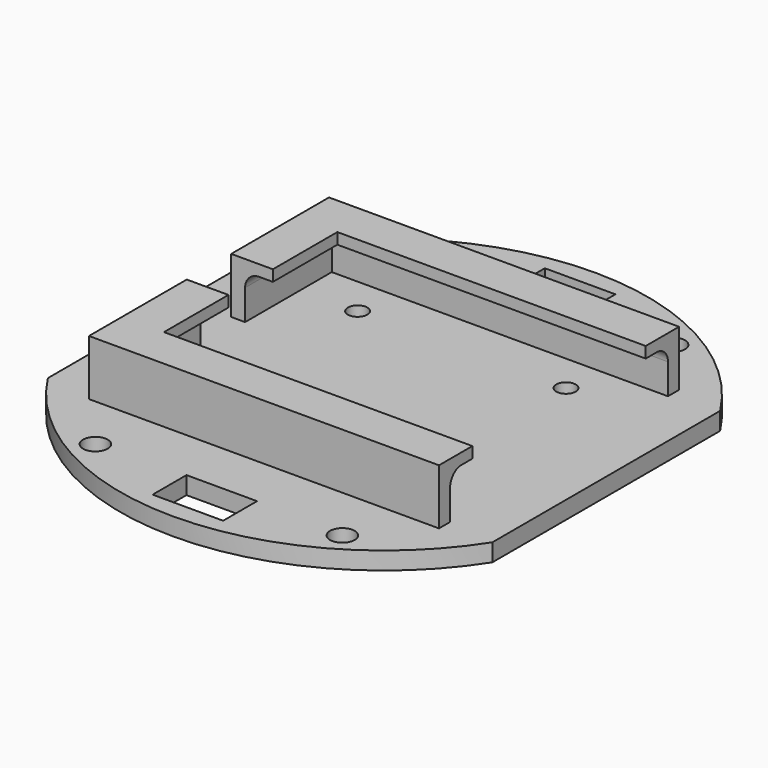
from build123d import *

# Parameters (mm, degrees)
F0_R     = 2.2225
F0_R_2   = 1.75
F0_W     = 12.7
F0_H     = 7.62
F1_DEPTH = 3.175
F3_DEPTH = 10
F5_DEPTH = 2
F6_R     = 2.54


with BuildPart() as f1:
    # F0 (on Top) → F1 (new body)
    with BuildSketch(Plane.XY):
        with BuildLine():
            Line((40, -25.617377), (40, 25.617377))
            ThreePointArc((40, 25.617377), (0, 47.5), (-40, 25.617377))
            Line((-40, 25.617377), (-40, -25.617377))
            ThreePointArc((-40, -25.617377), (0, -47.5), (40, -25.617377))
        make_face()
        with Locations((-22.225, -37.1475)):
            Circle(F0_R, mode=Mode.SUBTRACT)
        with Locations((-18.75, -17.5)):
            Circle(F0_R_2, mode=Mode.SUBTRACT)
        with Locations((0, -40.31)):
            Rectangle(F0_W, F0_H, mode=Mode.SUBTRACT)
        with Locations((22.225, -37.1475)):
            Circle(F0_R, mode=Mode.SUBTRACT)
        with Locations((18.75, -17.5)):
            Circle(F0_R_2, mode=Mode.SUBTRACT)
        with Locations((-18.75, 17.5)):
            Circle(F0_R_2, mode=Mode.SUBTRACT)
        with Locations((-22.225, 37.1475)):
            Circle(F0_R, mode=Mode.SUBTRACT)
        with Locations((18.75, 17.5)):
            Circle(F0_R_2, mode=Mode.SUBTRACT)
        with Locations((0, 40.31)):
            Rectangle(F0_W, F0_H, mode=Mode.SUBTRACT)
        with Locations((22.225, 37.1475)):
            Circle(F0_R, mode=Mode.SUBTRACT)
    extrude(amount=F1_DEPTH)

    # F2 (on face) → F3 (join)
    with BuildSketch(Plane.XY.offset(3.175)):
        Polygon((-31.5, -24.5), (-31.5, -27), (31.5, -27), (31.5, -24.5), (-29, -24.5), (-29, -5), (-31.5, -5), align=None)
        Polygon((31.5, 24.5), (31.5, 27), (-31.5, 27), (-31.5, 24.5), (-31.5, 5), (-29, 5), (-29, 24.5), align=None)
    extrude(amount=F3_DEPTH)

    # F4 (on face) → F5 (join)
    with BuildSketch(Plane.XY.offset(13.175)):
        Polygon((-31.5, -27), (31.5, -27), (31.5, -19.5), (-24, -19.5), (-24, -5), (-31.5, -5), (-31.5, -19.5), align=None)
        Polygon((-31.5, 14.288086), (-31.5, 5), (-24, 5), (-24, 19.5), (31.5, 19.5), (31.5, 27), (-31.5, 27), (-31.5, 20.743756), (-31.5, 19.5), align=None)
    extrude(amount=-F5_DEPTH)

    # F6
    f6_edges = [f1.edges().sort_by_distance(p)[0] for p in [
        (1.25, -24.5, 11.175),
        (1.25, 24.5, 11.175),
        (-29, -14.75, 11.175),
        (-29, 14.75, 11.175),
    ]]
    fillet(f6_edges, radius=F6_R)


solid = f1.part
